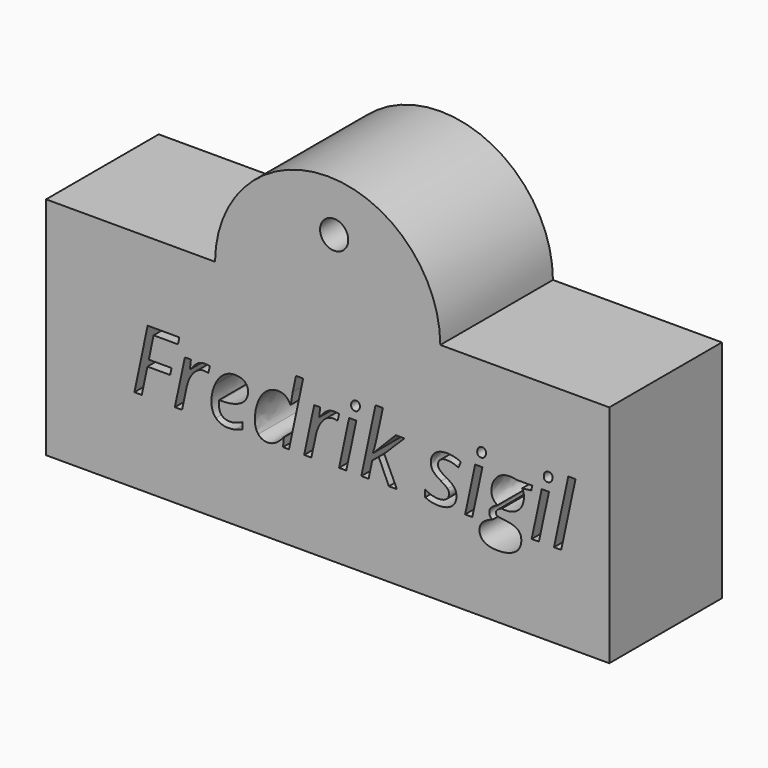
from build123d import *

# Parameters (mm, degrees)
F0_R     = 2.5
F1_DEPTH = 25


with BuildPart() as f1:
    # F0 (on Front) → F1 (new body)
    with BuildSketch(Plane.XZ):
        with BuildLine():
            Line((-51.1475402862, 52.7649648707), (-51.1475402862, 12.7649648707))
            Line((-51.1475402862, 12.7649648707), (48.8524597138, 12.7649648707))
            Line((48.8524597138, 12.7649648707), (48.8524597138, 52.7649648707))
            Line((48.8524597138, 52.7649648707), (18.8524597138, 52.7649648707))
            ThreePointArc((18.8524597138, 52.7649648707), (-1.1475402862, 72.6408744869), (-21.1475402862, 52.7649648707))
            Line((-21.1475402862, 52.7649648707), (-51.1475402862, 52.7649648707))
        make_face()
        Polygon((-33.1544589178, 32.4719319654), (-34.1574250065, 27.7090661733), (-35.4710659569, 27.7090661733), (-33.1104262602, 38.8860224159), (-27.4913699045, 38.8860224159), (-27.7188719686, 37.7167107319), (-32.0609812552, 37.7167107319), (-32.9024942662, 33.6412436494), (-28.8661673237, 33.6412436494), (-29.110793199, 32.4719319654), align=None, mode=Mode.SUBTRACT)
        with BuildLine():
            add(Edge.make_bspline(
                [(-23.8635681738, 36.0691554618), (-23.4697205146, 36.2416167039), (-22.9878075402, 36.2416167039)],
                knots=[0, 0, 0, 1, 1, 1], degree=2))
            add(Edge.make_bspline(
                [(-22.9878075402, 36.2416167039), (-22.4594156496, 36.2416167039), (-22.0704605078, 36.1339813187)],
                knots=[0, 0, 0, 1, 1, 1], degree=2))
            Line((-22.0704605078, 36.1339813187), (-22.3444414882, 34.9866859636))
            add(Edge.make_bspline(
                [(-22.3444414882, 34.9866859636), (-22.7505204412, 35.0869825724), (-23.1492606179, 35.0869825724)],
                knots=[0, 0, 0, 1, 1, 1], degree=2))
            add(Edge.make_bspline(
                [(-23.1492606179, 35.0869825724), (-23.8439981038, 35.0869825724), (-24.4518934039, 34.6283090562)],
                knots=[0, 0, 0, 1, 1, 1], degree=2))
            add(Edge.make_bspline(
                [(-24.4518934039, 34.6283090562), (-25.059788704, 34.16963554), (-25.5147928321, 33.3550313753)],
                knots=[0, 0, 0, 1, 1, 1], degree=2))
            add(Edge.make_bspline(
                [(-25.5147928321, 33.3550313753), (-25.9697969602, 32.5404272105), (-26.1826214717, 31.5472461568)],
                knots=[0, 0, 0, 1, 1, 1], degree=2))
            Line((-26.1826214717, 31.5472461568), (-27.0021181539, 27.7090661733))
            Line((-27.0021181539, 27.7090661733), (-28.2864039993, 27.7090661733))
            Line((-28.2864039993, 27.7090661733), (-26.4957425921, 36.0875024024))
            Line((-26.4957425921, 36.0875024024), (-25.4340662932, 36.0875024024))
            Line((-25.4340662932, 36.0875024024), (-25.6028581472, 34.536574353))
            Line((-25.6028581472, 34.536574353), (-25.5245778671, 34.536574353))
            add(Edge.make_bspline(
                [(-25.5245778671, 34.536574353), (-24.9741696477, 35.2631132026), (-24.6157927404, 35.5799037112)],
                knots=[0, 0, 0, 1, 1, 1], degree=2))
            add(Edge.make_bspline(
                [(-24.6157927404, 35.5799037112), (-24.257415833, 35.8966942197), (-23.8635681738, 36.0691554618)],
                knots=[0, 0, 0, 1, 1, 1], degree=2))
        make_face(mode=Mode.SUBTRACT)
        with BuildLine():
            add(Edge.make_bspline(
                [(-17.562005626, 27.6894961033), (-18.1124138455, 27.5549518719), (-18.7753499675, 27.5549518719)],
                knots=[0, 0, 0, 1, 1, 1], degree=2))
            add(Edge.make_bspline(
                [(-18.7753499675, 27.5549518719), (-20.1819487505, 27.5549518719), (-20.9855447509, 28.3891261067)],
                knots=[0, 0, 0, 1, 1, 1], degree=2))
            add(Edge.make_bspline(
                [(-20.9855447509, 28.3891261067), (-21.7891407512, 29.2233003414), (-21.7891407512, 30.6983943695)],
                knots=[0, 0, 0, 1, 1, 1], degree=2))
            add(Edge.make_bspline(
                [(-21.7891407512, 30.6983943695), (-21.7891407512, 32.1343482575), (-21.2191624618, 33.4541048548)],
                knots=[0, 0, 0, 1, 1, 1], degree=2))
            add(Edge.make_bspline(
                [(-21.2191624618, 33.4541048548), (-20.6491841723, 34.773861452), (-19.7085976818, 35.5077390779)],
                knots=[0, 0, 0, 1, 1, 1], degree=2))
            add(Edge.make_bspline(
                [(-19.7085976818, 35.5077390779), (-18.7680111913, 36.2416167039), (-17.6378396474, 36.2416167039)],
                knots=[0, 0, 0, 1, 1, 1], degree=2))
            add(Edge.make_bspline(
                [(-17.6378396474, 36.2416167039), (-16.4685279634, 36.2416167039), (-15.8789796039, 35.7327948832)],
                knots=[0, 0, 0, 1, 1, 1], degree=2))
            add(Edge.make_bspline(
                [(-15.8789796039, 35.7327948832), (-15.2894312445, 35.2239730626), (-15.2894312445, 34.3139648065)],
                knots=[0, 0, 0, 1, 1, 1], degree=2))
            add(Edge.make_bspline(
                [(-15.2894312445, 34.3139648065), (-15.2894312445, 32.9391673873), (-16.5590395373, 32.1551414569)],
                knots=[0, 0, 0, 1, 1, 1], degree=2))
            add(Edge.make_bspline(
                [(-16.5590395373, 32.1551414569), (-17.8286478301, 31.3711155266), (-20.1917337855, 31.3711155266)],
                knots=[0, 0, 0, 1, 1, 1], degree=2))
            Line((-20.1917337855, 31.3711155266), (-20.4436984371, 31.3711155266))
            Line((-20.4436984371, 31.3711155266), (-20.4730535421, 30.7595508383))
            add(Edge.make_bspline(
                [(-20.4730535421, 30.7595508383), (-20.4730535421, 29.7590310084), (-20.0033718615, 29.1963914952)],
                knots=[0, 0, 0, 1, 1, 1], degree=2))
            add(Edge.make_bspline(
                [(-20.0033718615, 29.1963914952), (-19.533690181, 28.633751982), (-18.5478479035, 28.633751982)],
                knots=[0, 0, 0, 1, 1, 1], degree=2))
            add(Edge.make_bspline(
                [(-18.5478479035, 28.633751982), (-18.0659349291, 28.633751982), (-17.5571131085, 28.7719656015)],
                knots=[0, 0, 0, 1, 1, 1], degree=2))
            add(Edge.make_bspline(
                [(-17.5571131085, 28.7719656015), (-17.0482912879, 28.9101792211), (-16.2923973332, 29.277118034)],
                knots=[0, 0, 0, 1, 1, 1], degree=2))
            Line((-16.2923973332, 29.277118034), (-16.2923973332, 28.1591777839))
            add(Edge.make_bspline(
                [(-16.2923973332, 28.1591777839), (-17.0115974066, 27.8240403347), (-17.562005626, 27.6894961033)],
                knots=[0, 0, 0, 1, 1, 1], degree=2))
        make_face(mode=Mode.SUBTRACT)
        with BuildLine():
            add(Edge.make_bspline(
                [(-12.0310145854, 35.4832764904), (-11.094097483, 36.2244928926), (-9.9321245754, 36.2244928926)],
                knots=[0, 0, 0, 1, 1, 1], degree=2))
            add(Edge.make_bspline(
                [(-9.9321245754, 36.2244928926), (-8.449691771, 36.2244928926), (-7.7843093902, 34.773861452)],
                knots=[0, 0, 0, 1, 1, 1], degree=2))
            Line((-7.7843093902, 34.773861452), (-7.7084753689, 34.773861452))
            add(Edge.make_bspline(
                [(-7.7084753689, 34.773861452), (-7.578823655, 35.9578506885), (-7.3635528847, 36.8678589446)],
                knots=[0, 0, 0, 1, 1, 1], degree=2))
            Line((-7.3635528847, 36.8678589446), (-6.7666657489, 39.6052224893))
            Line((-6.7666657489, 39.6052224893), (-5.4995037149, 39.6052224893))
            Line((-5.4995037149, 39.6052224893), (-8.0215964892, 27.7090661733))
            Line((-8.0215964892, 27.7090661733), (-9.0832727881, 27.7090661733))
            Line((-9.0832727881, 27.7090661733), (-8.9144809341, 29.306473139))
            Line((-8.9144809341, 29.306473139), (-8.9756374029, 29.306473139))
            add(Edge.make_bspline(
                [(-8.9756374029, 29.306473139), (-9.7486551689, 28.3524322254), (-10.421376326, 27.9536920486)],
                knots=[0, 0, 0, 1, 1, 1], degree=2))
            add(Edge.make_bspline(
                [(-10.421376326, 27.9536920486), (-11.094097483, 27.5549518719), (-11.8132975564, 27.5549518719)],
                knots=[0, 0, 0, 1, 1, 1], degree=2))
            add(Edge.make_bspline(
                [(-11.8132975564, 27.5549518719), (-12.8749738552, 27.5549518719), (-13.471860991, 28.3047301797)],
                knots=[0, 0, 0, 1, 1, 1], degree=2))
            add(Edge.make_bspline(
                [(-13.471860991, 28.3047301797), (-14.0687481267, 29.0545084875), (-14.0687481267, 30.3852732491)],
                knots=[0, 0, 0, 1, 1, 1], degree=2))
            add(Edge.make_bspline(
                [(-14.0687481267, 30.3852732491), (-14.0687481267, 32.0218203549), (-13.5183399073, 33.3819402216)],
                knots=[0, 0, 0, 1, 1, 1], degree=2))
            add(Edge.make_bspline(
                [(-13.5183399073, 33.3819402216), (-12.9679316879, 34.7420600883), (-12.0310145854, 35.4832764904)],
                knots=[0, 0, 0, 1, 1, 1], degree=2))
        make_face(mode=Mode.SUBTRACT)
        with BuildLine():
            add(Edge.make_bspline(
                [(-0.9078760355, 36.0691554618), (-0.5140283762, 36.2416167039), (-0.0321154019, 36.2416167039)],
                knots=[0, 0, 0, 1, 1, 1], degree=2))
            add(Edge.make_bspline(
                [(-0.0321154019, 36.2416167039), (0.4962764888, 36.2416167039), (0.8852316305, 36.1339813187)],
                knots=[0, 0, 0, 1, 1, 1], degree=2))
            Line((0.8852316305, 36.1339813187), (0.6112506502, 34.9866859636))
            add(Edge.make_bspline(
                [(0.6112506502, 34.9866859636), (0.2051716972, 35.0869825724), (-0.1935684796, 35.0869825724)],
                knots=[0, 0, 0, 1, 1, 1], degree=2))
            add(Edge.make_bspline(
                [(-0.1935684796, 35.0869825724), (-0.8883059654, 35.0869825724), (-1.4962012656, 34.6283090562)],
                knots=[0, 0, 0, 1, 1, 1], degree=2))
            add(Edge.make_bspline(
                [(-1.4962012656, 34.6283090562), (-2.1040965657, 34.16963554), (-2.5591006938, 33.3550313753)],
                knots=[0, 0, 0, 1, 1, 1], degree=2))
            add(Edge.make_bspline(
                [(-2.5591006938, 33.3550313753), (-3.0141048218, 32.5404272105), (-3.2269293333, 31.5472461568)],
                knots=[0, 0, 0, 1, 1, 1], degree=2))
            Line((-3.2269293333, 31.5472461568), (-4.0464260156, 27.7090661733))
            Line((-4.0464260156, 27.7090661733), (-5.3307118609, 27.7090661733))
            Line((-5.3307118609, 27.7090661733), (-3.5400504537, 36.0875024024))
            Line((-3.5400504537, 36.0875024024), (-2.4783741549, 36.0875024024))
            Line((-2.4783741549, 36.0875024024), (-2.6471660089, 34.536574353))
            Line((-2.6471660089, 34.536574353), (-2.5688857288, 34.536574353))
            add(Edge.make_bspline(
                [(-2.5688857288, 34.536574353), (-2.0184775093, 35.2631132026), (-1.660100602, 35.5799037112)],
                knots=[0, 0, 0, 1, 1, 1], degree=2))
            add(Edge.make_bspline(
                [(-1.660100602, 35.5799037112), (-1.3017236947, 35.8966942197), (-0.9078760355, 36.0691554618)],
                knots=[0, 0, 0, 1, 1, 1], degree=2))
        make_face(mode=Mode.SUBTRACT)
        Polygon((3.9430550718, 36.0875024024), (2.1523936646, 27.7090661733), (0.8681078192, 27.7090661733), (2.6587692264, 36.0875024024), align=None, mode=Mode.SUBTRACT)
        with BuildLine():
            Line((6.8859043517, 31.9826802148), (6.9152594567, 31.9826802148))
            Line((6.9152594567, 31.9826802148), (10.9369088467, 36.0875024024))
            Line((10.9369088467, 36.0875024024), (12.4731593436, 36.0875024024))
            Line((12.4731593436, 36.0875024024), (8.8893902704, 32.5184108818))
            Line((8.8893902704, 32.5184108818), (11.1423945819, 27.7090661733))
            Line((11.1423945819, 27.7090661733), (9.7137794701, 27.7090661733))
            Line((9.7137794701, 27.7090661733), (7.9182255454, 31.7160380108))
            Line((7.9182255454, 31.7160380108), (6.7562526377, 30.7742283909))
            Line((6.7562526377, 30.7742283909), (6.1275641382, 27.7090661733))
            Line((6.1275641382, 27.7090661733), (4.8286007404, 27.7090661733))
            Line((4.8286007404, 27.7090661733), (7.3506935147, 39.6052224893))
            Line((7.3506935147, 39.6052224893), (8.6521031713, 39.6052224893))
            add(Edge.make_bspline(
                [(8.6521031713, 39.6052224893), (8.1016949519, 37.0366507986), (7.6650377645, 35.0025866454)],
                knots=[0, 0, 0, 1, 1, 1], degree=2))
            add(Edge.make_bspline(
                [(7.6650377645, 35.0025866454), (7.2283805771, 32.9685224923), (6.8859043517, 31.9826802148)],
                knots=[0, 0, 0, 1, 1, 1], degree=2))
        make_face(mode=Mode.SUBTRACT)
        with BuildLine():
            add(Edge.make_bspline(
                [(21.541440541, 30.9393508567), (21.7175711712, 30.5614038793), (21.7175711712, 30.0868296813)],
                knots=[0, 0, 0, 1, 1, 1], degree=2))
            add(Edge.make_bspline(
                [(21.7175711712, 30.0868296813), (21.7175711712, 28.8930554098), (20.872388772, 28.2240036408)],
                knots=[0, 0, 0, 1, 1, 1], degree=2))
            add(Edge.make_bspline(
                [(20.872388772, 28.2240036408), (20.0272063729, 27.5549518719), (18.490955876, 27.5549518719)],
                knots=[0, 0, 0, 1, 1, 1], degree=2))
            add(Edge.make_bspline(
                [(18.490955876, 27.5549518719), (17.1993312544, 27.5549518719), (16.1596712844, 28.0833437625)],
                knots=[0, 0, 0, 1, 1, 1], degree=2))
            Line((16.1596712844, 28.0833437625), (16.1596712844, 29.2917955865))
            add(Edge.make_bspline(
                [(16.1596712844, 29.2917955865), (16.6954019513, 28.9713356899), (17.3143054158, 28.7952050597)],
                knots=[0, 0, 0, 1, 1, 1], degree=2))
            add(Edge.make_bspline(
                [(17.3143054158, 28.7952050597), (17.9332088803, 28.6190744294), (18.4616007709, 28.6190744294)],
                knots=[0, 0, 0, 1, 1, 1], degree=2))
            add(Edge.make_bspline(
                [(18.4616007709, 28.6190744294), (19.4229804609, 28.6190744294), (19.9122322115, 29.0006907949)],
                knots=[0, 0, 0, 1, 1, 1], degree=2))
            add(Edge.make_bspline(
                [(19.9122322115, 29.0006907949), (20.4014839621, 29.3823071604), (20.4014839621, 29.9791942961)],
                knots=[0, 0, 0, 1, 1, 1], degree=2))
            add(Edge.make_bspline(
                [(20.4014839621, 29.9791942961), (20.4014839621, 30.4146283542), (20.134841758, 30.713071922)],
                knots=[0, 0, 0, 1, 1, 1], degree=2))
            add(Edge.make_bspline(
                [(20.134841758, 30.713071922), (19.8681995539, 31.0115154899), (18.9802076266, 31.5325686043)],
                knots=[0, 0, 0, 1, 1, 1], degree=2))
            add(Edge.make_bspline(
                [(18.9802076266, 31.5325686043), (17.9870265729, 32.0903156), (17.5736088436, 32.6248231375)],
                knots=[0, 0, 0, 1, 1, 1], degree=2))
            add(Edge.make_bspline(
                [(17.5736088436, 32.6248231375), (17.1601911143, 33.159330675), (17.1601911143, 33.893208301)],
                knots=[0, 0, 0, 1, 1, 1], degree=2))
            add(Edge.make_bspline(
                [(17.1601911143, 33.893208301), (17.1601911143, 34.9475458235), (17.9332088803, 35.5945812637)],
                knots=[0, 0, 0, 1, 1, 1], degree=2))
            add(Edge.make_bspline(
                [(17.9332088803, 35.5945812637), (18.7062266462, 36.2416167039), (19.966049904, 36.2416167039)],
                knots=[0, 0, 0, 1, 1, 1], degree=2))
            add(Edge.make_bspline(
                [(19.966049904, 36.2416167039), (21.2747983369, 36.2416167039), (22.4905889372, 35.6740846732)],
                knots=[0, 0, 0, 1, 1, 1], degree=2))
            Line((22.4905889372, 35.6740846732), (22.0771712079, 34.6270859269))
            Line((22.0771712079, 34.6270859269), (21.6490759261, 34.8178941096))
            add(Edge.make_bspline(
                [(21.6490759261, 34.8178941096), (20.8760581602, 35.1481390413), (19.966049904, 35.1481390413)],
                knots=[0, 0, 0, 1, 1, 1], degree=2))
            add(Edge.make_bspline(
                [(19.966049904, 35.1481390413), (19.2566348657, 35.1481390413), (18.8505559127, 34.8154478508)],
                knots=[0, 0, 0, 1, 1, 1], degree=2))
            add(Edge.make_bspline(
                [(18.8505559127, 34.8154478508), (18.4444769597, 34.4827566604), (18.4444769597, 33.9543647698)],
                knots=[0, 0, 0, 1, 1, 1], degree=2))
            add(Edge.make_bspline(
                [(18.4444769597, 33.9543647698), (18.4444769597, 33.526269488), (18.7160116813, 33.2204871439)],
                knots=[0, 0, 0, 1, 1, 1], degree=2))
            add(Edge.make_bspline(
                [(18.7160116813, 33.2204871439), (18.9875464028, 32.9147047997), (19.8363981901, 32.4327918254)],
                knots=[0, 0, 0, 1, 1, 1], degree=2))
            add(Edge.make_bspline(
                [(19.8363981901, 32.4327918254), (20.6558948724, 31.9753414386), (21.0106023916, 31.6463196363)],
                knots=[0, 0, 0, 1, 1, 1], degree=2))
            add(Edge.make_bspline(
                [(21.0106023916, 31.6463196363), (21.3653099108, 31.317297834), (21.541440541, 30.9393508567)],
                knots=[0, 0, 0, 1, 1, 1], degree=2))
        make_face(mode=Mode.SUBTRACT)
        with BuildLine():
            add(Edge.make_bspline(
                [(3.2165162221, 37.6959175325), (3.0183692631, 37.8830563271), (3.0183692631, 38.2279788113)],
                knots=[0, 0, 0, 1, 1, 1], degree=2))
            add(Edge.make_bspline(
                [(3.0183692631, 38.2279788113), (3.0183692631, 38.6560740931), (3.2629951384, 38.9276088147)],
                knots=[0, 0, 0, 1, 1, 1], degree=2))
            add(Edge.make_bspline(
                [(3.2629951384, 38.9276088147), (3.5076210137, 39.1991435363), (3.8965761555, 39.1991435363)],
                knots=[0, 0, 0, 1, 1, 1], degree=2))
            add(Edge.make_bspline(
                [(3.8965761555, 39.1991435363), (4.5692973125, 39.1991435363), (4.5692973125, 38.5117448267)],
                knots=[0, 0, 0, 1, 1, 1], degree=2))
            add(Edge.make_bspline(
                [(4.5692973125, 38.5117448267), (4.5692973125, 38.0909883211), (4.3136632729, 37.7998835295)],
                knots=[0, 0, 0, 1, 1, 1], degree=2))
            add(Edge.make_bspline(
                [(4.3136632729, 37.7998835295), (4.0580292332, 37.5087787379), (3.7204455252, 37.5087787379)],
                knots=[0, 0, 0, 1, 1, 1], degree=2))
            add(Edge.make_bspline(
                [(3.7204455252, 37.5087787379), (3.4146631811, 37.5087787379), (3.2165162221, 37.6959175325)],
                knots=[0, 0, 0, 1, 1, 1], degree=2))
        make_face(mode=Mode.SUBTRACT)
        with BuildLine():
            Line((32.3514579706, 36.0875024024), (35.1891181241, 36.0875024024))
            Line((35.1891181241, 36.0875024024), (34.9958636826, 35.2704519789))
            Line((34.9958636826, 35.2704519789), (33.3837791644, 35.0869825724))
            add(Edge.make_bspline(
                [(33.3837791644, 35.0869825724), (33.6969002847, 34.6124083743), (33.6969002847, 33.8785307484)],
                knots=[0, 0, 0, 1, 1, 1], degree=2))
            add(Edge.make_bspline(
                [(33.6969002847, 33.8785307484), (33.6969002847, 32.4181142729), (32.8064620986, 31.5509155449)],
                knots=[0, 0, 0, 1, 1, 1], degree=2))
            add(Edge.make_bspline(
                [(32.8064620986, 31.5509155449), (31.9160239125, 30.683716817), (30.426252332, 30.683716817)],
                knots=[0, 0, 0, 1, 1, 1], degree=2))
            add(Edge.make_bspline(
                [(30.426252332, 30.683716817), (30.0054958264, 30.683716817), (29.7828862799, 30.7448732858)],
                knots=[0, 0, 0, 1, 1, 1], degree=2))
            add(Edge.make_bspline(
                [(29.7828862799, 30.7448732858), (28.7212099811, 30.3387943328), (28.7212099811, 29.7419071971)],
                knots=[0, 0, 0, 1, 1, 1], degree=2))
            add(Edge.make_bspline(
                [(28.7212099811, 29.7419071971), (28.7212099811, 29.4287860767), (28.9731746327, 29.3260432091)],
                knots=[0, 0, 0, 1, 1, 1], degree=2))
            add(Edge.make_bspline(
                [(28.9731746327, 29.3260432091), (29.2251392842, 29.2233003414), (29.7070522586, 29.1621438726)],
                knots=[0, 0, 0, 1, 1, 1], degree=2))
            Line((29.7070522586, 29.1621438726), (30.6023829622, 29.0545084875))
            add(Edge.make_bspline(
                [(30.6023829622, 29.0545084875), (31.9845191576, 28.8857166335), (32.6083151397, 28.3817873304)],
                knots=[0, 0, 0, 1, 1, 1], degree=2))
            add(Edge.make_bspline(
                [(32.6083151397, 28.3817873304), (33.2321111217, 27.8778580273), (33.2321111217, 26.8993545261)],
                knots=[0, 0, 0, 1, 1, 1], degree=2))
            add(Edge.make_bspline(
                [(33.2321111217, 26.8993545261), (33.2321111217, 25.4927557431), (32.1153940009, 24.7197379771)],
                knots=[0, 0, 0, 1, 1, 1], degree=2))
            add(Edge.make_bspline(
                [(32.1153940009, 24.7197379771), (30.9986768802, 23.9467202112), (28.9731746327, 23.9467202112)],
                knots=[0, 0, 0, 1, 1, 1], degree=2))
            add(Edge.make_bspline(
                [(28.9731746327, 23.9467202112), (27.4907418283, 23.9467202112), (26.6492288173, 24.5093597244)],
                knots=[0, 0, 0, 1, 1, 1], degree=2))
            add(Edge.make_bspline(
                [(26.6492288173, 24.5093597244), (25.8077158063, 25.0719992376), (25.8077158063, 26.0969816551)],
                knots=[0, 0, 0, 1, 1, 1], degree=2))
            add(Edge.make_bspline(
                [(25.8077158063, 26.0969816551), (25.8077158063, 26.8993545261), (26.3581240257, 27.4876797562)],
                knots=[0, 0, 0, 1, 1, 1], degree=2))
            add(Edge.make_bspline(
                [(26.3581240257, 27.4876797562), (26.9085322451, 28.0760049863), (28.1390003979, 28.4894227155)],
                knots=[0, 0, 0, 1, 1, 1], degree=2))
            add(Edge.make_bspline(
                [(28.1390003979, 28.4894227155), (27.5445595209, 28.8025438359), (27.5445595209, 29.4141085242)],
                knots=[0, 0, 0, 1, 1, 1], degree=2))
            add(Edge.make_bspline(
                [(27.5445595209, 29.4141085242), (27.5445595209, 29.9425004148), (27.9335146626, 30.3204473922)],
                knots=[0, 0, 0, 1, 1, 1], degree=2))
            add(Edge.make_bspline(
                [(27.9335146626, 30.3204473922), (28.3224698044, 30.6983943695), (29.019653549, 31.0261930424)],
                knots=[0, 0, 0, 1, 1, 1], degree=2))
            add(Edge.make_bspline(
                [(29.019653549, 31.0261930424), (28.5377405746, 31.2708189177), (28.2319582305, 31.7490625039)],
                knots=[0, 0, 0, 1, 1, 1], degree=2))
            add(Edge.make_bspline(
                [(28.2319582305, 31.7490625039), (27.9261758864, 32.2273060901), (27.9261758864, 32.8608871072)],
                knots=[0, 0, 0, 1, 1, 1], degree=2))
            add(Edge.make_bspline(
                [(27.9261758864, 32.8608871072), (27.9261758864, 34.3457661703), (28.8398535306, 35.2936914371)],
                knots=[0, 0, 0, 1, 1, 1], degree=2))
            add(Edge.make_bspline(
                [(28.8398535306, 35.2936914371), (29.7535311749, 36.2416167039), (31.1748075104, 36.2416167039)],
                knots=[0, 0, 0, 1, 1, 1], degree=2))
            add(Edge.make_bspline(
                [(31.1748075104, 36.2416167039), (31.7716946461, 36.2416167039), (32.3514579706, 36.0875024024)],
                knots=[0, 0, 0, 1, 1, 1], degree=2))
        make_face(mode=Mode.SUBTRACT)
        Polygon((26.3287689207, 36.0875024024), (24.5381075134, 27.7090661733), (23.2538216681, 27.7090661733), (25.0444830753, 36.0875024024), align=None, mode=Mode.SUBTRACT)
        Polygon((38.1466449565, 36.0875024024), (36.3559835493, 27.7090661733), (35.0716977039, 27.7090661733), (36.8623591112, 36.0875024024), align=None, mode=Mode.SUBTRACT)
        Polygon((42.8556930561, 39.6052224893), (40.3164764704, 27.7090661733), (39.0321906251, 27.7090661733), (41.5714072107, 39.6052224893), align=None, mode=Mode.SUBTRACT)
        with BuildLine():
            add(Edge.make_bspline(
                [(25.602230071, 37.6959175325), (25.404083112, 37.8830563271), (25.404083112, 38.2279788113)],
                knots=[0, 0, 0, 1, 1, 1], degree=2))
            add(Edge.make_bspline(
                [(25.404083112, 38.2279788113), (25.404083112, 38.6560740931), (25.6487089873, 38.9276088147)],
                knots=[0, 0, 0, 1, 1, 1], degree=2))
            add(Edge.make_bspline(
                [(25.6487089873, 38.9276088147), (25.8933348626, 39.1991435363), (26.2822900043, 39.1991435363)],
                knots=[0, 0, 0, 1, 1, 1], degree=2))
            add(Edge.make_bspline(
                [(26.2822900043, 39.1991435363), (26.9550111614, 39.1991435363), (26.9550111614, 38.5117448267)],
                knots=[0, 0, 0, 1, 1, 1], degree=2))
            add(Edge.make_bspline(
                [(26.9550111614, 38.5117448267), (26.9550111614, 38.0909883211), (26.6993771217, 37.7998835295)],
                knots=[0, 0, 0, 1, 1, 1], degree=2))
            add(Edge.make_bspline(
                [(26.6993771217, 37.7998835295), (26.443743082, 37.5087787379), (26.1061593741, 37.5087787379)],
                knots=[0, 0, 0, 1, 1, 1], degree=2))
            add(Edge.make_bspline(
                [(26.1061593741, 37.5087787379), (25.80037703, 37.5087787379), (25.602230071, 37.6959175325)],
                knots=[0, 0, 0, 1, 1, 1], degree=2))
        make_face(mode=Mode.SUBTRACT)
        with BuildLine():
            add(Edge.make_bspline(
                [(37.4201061068, 37.6959175325), (37.2219591478, 37.8830563271), (37.2219591478, 38.2279788113)],
                knots=[0, 0, 0, 1, 1, 1], degree=2))
            add(Edge.make_bspline(
                [(37.2219591478, 38.2279788113), (37.2219591478, 38.6560740931), (37.4665850232, 38.9276088147)],
                knots=[0, 0, 0, 1, 1, 1], degree=2))
            add(Edge.make_bspline(
                [(37.4665850232, 38.9276088147), (37.7112108985, 39.1991435363), (38.1001660402, 39.1991435363)],
                knots=[0, 0, 0, 1, 1, 1], degree=2))
            add(Edge.make_bspline(
                [(38.1001660402, 39.1991435363), (38.7728871973, 39.1991435363), (38.7728871973, 38.5117448267)],
                knots=[0, 0, 0, 1, 1, 1], degree=2))
            add(Edge.make_bspline(
                [(38.7728871973, 38.5117448267), (38.7728871973, 38.0909883211), (38.5172531576, 37.7998835295)],
                knots=[0, 0, 0, 1, 1, 1], degree=2))
            add(Edge.make_bspline(
                [(38.5172531576, 37.7998835295), (38.2616191179, 37.5087787379), (37.92403541, 37.5087787379)],
                knots=[0, 0, 0, 1, 1, 1], degree=2))
            add(Edge.make_bspline(
                [(37.92403541, 37.5087787379), (37.6182530658, 37.5087787379), (37.4201061068, 37.6959175325)],
                knots=[0, 0, 0, 1, 1, 1], degree=2))
        make_face(mode=Mode.SUBTRACT)
        with Locations((0, 63.8667641487)):
            Circle(F0_R, mode=Mode.SUBTRACT)
    extrude(amount=F1_DEPTH)


solid = f1.part
